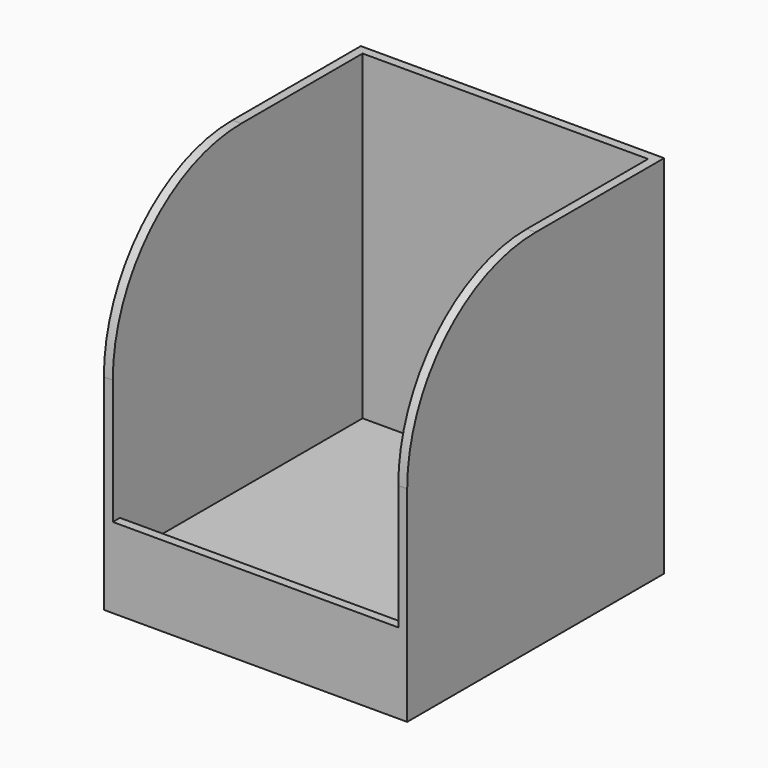
from build123d import *

# Parameters (mm, degrees)
F0_W     = 85
F0_H     = 90
F1_DEPTH = 102.5
F2_W     = 80
F2_H     = 85
F3_DEPTH = 10
F4_W     = 80
F4_H     = 85
F5_DEPTH = 90
F6_W     = 80
F6_H     = 80
F7_DEPTH = 25
F8_R     = 45


with BuildPart() as f1:
    # F0 (on Top) → F1 (new body)
    with BuildSketch(Plane.XY):
        with Locations((-11.937995, -3.484366)):
            Rectangle(F0_W, F0_H)
    extrude(amount=F1_DEPTH)

    # F2 (on face) → F3 (cut)
    with BuildSketch(Plane(origin=(0, 0, 0), x_dir=(1, 0, 0), z_dir=(0, 0, -1))):
        with Locations((-11.937995, 3.484366)):
            Rectangle(F2_W, F2_H)
    extrude(amount=-F3_DEPTH, mode=Mode.SUBTRACT)

    # F4 (on face) → F5 (cut)
    with BuildSketch(Plane.XY.offset(102.5)):
        with Locations((-11.937995, -3.484366)):
            Rectangle(F4_W, F4_H)
    extrude(amount=-F5_DEPTH, mode=Mode.SUBTRACT)

    # F6 (on face) → F7 (cut)
    with BuildSketch(Plane.XZ.offset(48.484366)):
        with Locations((-11.937995, 62.5)):
            Rectangle(F6_W, F6_H)
    extrude(amount=-F7_DEPTH, mode=Mode.SUBTRACT)

    # F8
    f8_edges = [f1.edges().sort_by_distance(p)[0] for p in [
        (-53.187995, -48.484366, 102.5),
        (29.312005, -48.484366, 102.5),
    ]]
    fillet(f8_edges, radius=F8_R)


solid = f1.part
